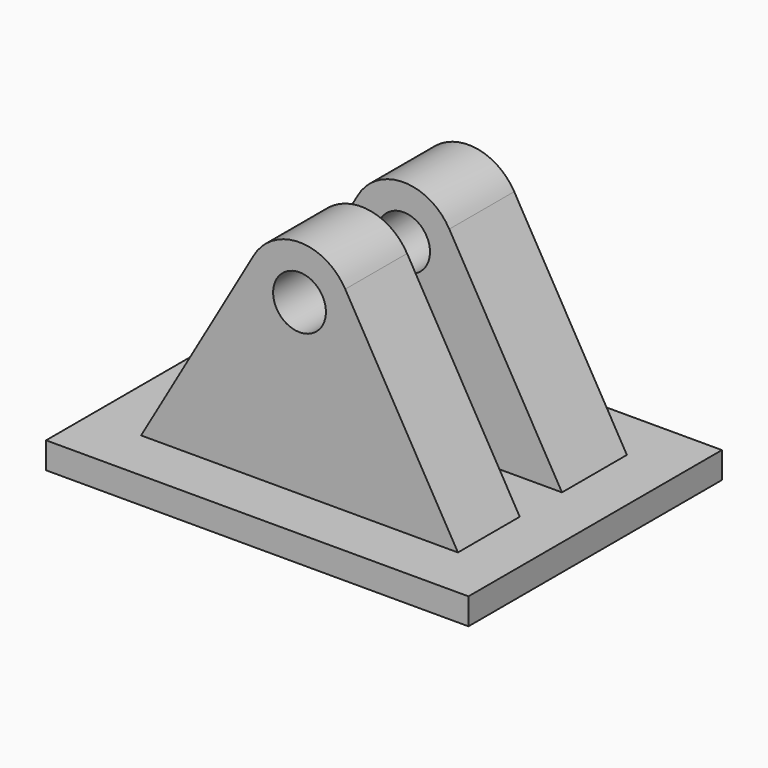
from build123d import *

# Parameters (mm, degrees)
F0_W     = 4
F0_H     = 3
F1_DEPTH = 0.25
F2_R     = 0.25
F3_DEPTH = 1
F4_W     = 0.5
F4_H     = 2.124262
F5_DEPTH = 12.5


with BuildPart() as f1:
    # F0 (on Top) → F1 (new body)
    with BuildSketch(Plane.XY):
        Rectangle(F0_W, F0_H)
    extrude(amount=-F1_DEPTH)

    # F2 (on Front) → F3 (join, symmetric)
    with BuildSketch(Plane.XZ):
        with BuildLine():
            Line((-0.433013, 1.848076), (-1.5, 0))
            Line((-1.5, 0), (1.5, 0))
            Line((1.5, 0), (0.433013, 1.848076))
            ThreePointArc((0.433013, 1.848076), (0, 2.098076), (-0.433013, 1.848076))
        make_face()
        with Locations((0, 1.598076)):
            Circle(F2_R, mode=Mode.SUBTRACT)
    extrude(amount=F3_DEPTH, both=True)

    # F4 (on Right) → F5 (cut, symmetric)
    with BuildSketch(Plane.YZ):
        with Locations((-0.018185, 1.062131)):
            Rectangle(F4_W, F4_H)
    extrude(amount=F5_DEPTH, both=True, mode=Mode.SUBTRACT)


solid = f1.part
